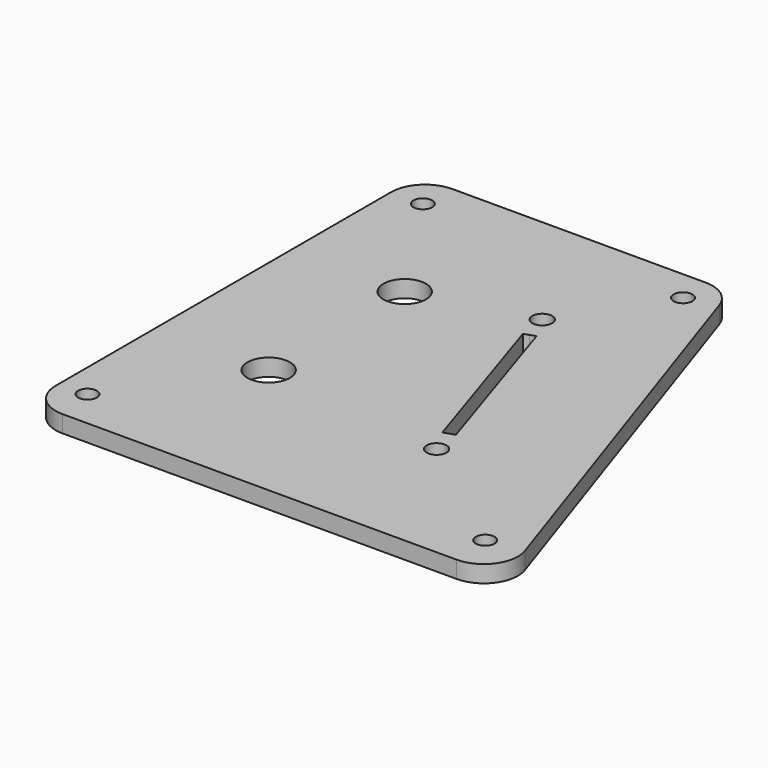
from build123d import *

# Parameters (mm, degrees)
PAD004_DEPTH    = 3
FILLET016_R     = 6
SKETCH144_R     = 3.75
POCKET031_DEPTH = 5
SKETCH145_R     = 1.75
POCKET058_DEPTH = 3
SKETCH191_R     = 1.65
POCKET060_DEPTH = 3


with BuildPart() as part:
    # Sketch143 → Pad004 (new body)
    with BuildSketch(Plane.XY.offset(45)):
        Polygon((282.000003, 258), (337, 258), (365.924584, 172), (282.000003, 172), align=None)
    extrude(amount=PAD004_DEPTH)

    # Fillet016
    fillet016_edges = [part.edges().sort_by_distance(p)[0] for p in [
        (365.924584, 172, 46.5),
        (282.000003, 172, 46.5),
        (282.000003, 258, 46.5),
        (337, 258, 46.5),
    ]]
    fillet(fillet016_edges, radius=FILLET016_R)

    # Sketch144 (on Face5 of Fillet016) → Pocket031 (cut)
    with BuildSketch(Plane.XY.offset(48)):
        with Locations((302, 230)):
            Circle(SKETCH144_R)
        with Locations((302.000005, 200.000003)):
            Circle(SKETCH144_R)
    extrude(amount=-POCKET031_DEPTH, mode=Mode.SUBTRACT)

    # Sketch145 (on Face5 of Pocket031) → Pocket058 (cut)
    with BuildSketch(Plane.XY.offset(48)):
        with Locations((322.023093, 235.313475)):
            Circle(SKETCH145_R)
        with Locations((334.779262, 196.053817)):
            Circle(SKETCH145_R)
        Polygon((333.263016, 200.720368), (334.214123, 201.029229), (324.489542, 230.958564), (323.538485, 230.649553), (322.587428, 230.340537), (332.311908, 200.411506), align=None)
    extrude(amount=-POCKET058_DEPTH, mode=Mode.SUBTRACT)

    # Sketch191 (on Face5 of Pocket058) → Pocket060 (cut)
    with BuildSketch(Plane.XY.offset(48)):
        with Locations((286.999994, 178.789996)):
            Circle(SKETCH191_R)
        with Locations((287.600004, 252.000004)):
            Circle(SKETCH191_R)
        with Locations((333.100005, 252.500004)):
            Circle(SKETCH191_R)
        with Locations((357, 179)):
            Circle(SKETCH191_R)
    extrude(amount=-POCKET060_DEPTH, mode=Mode.SUBTRACT)


with BuildPart() as part_1:
    # Body015 placement: moved
    add(part.part.moved(Location((0, 0, -2.9))))


with BuildPart() as part_2:
    # Clone placement: moved
    add(part_1.part.moved(Location((-278.000003, -262, -45.1))))


solid = part_2.part
